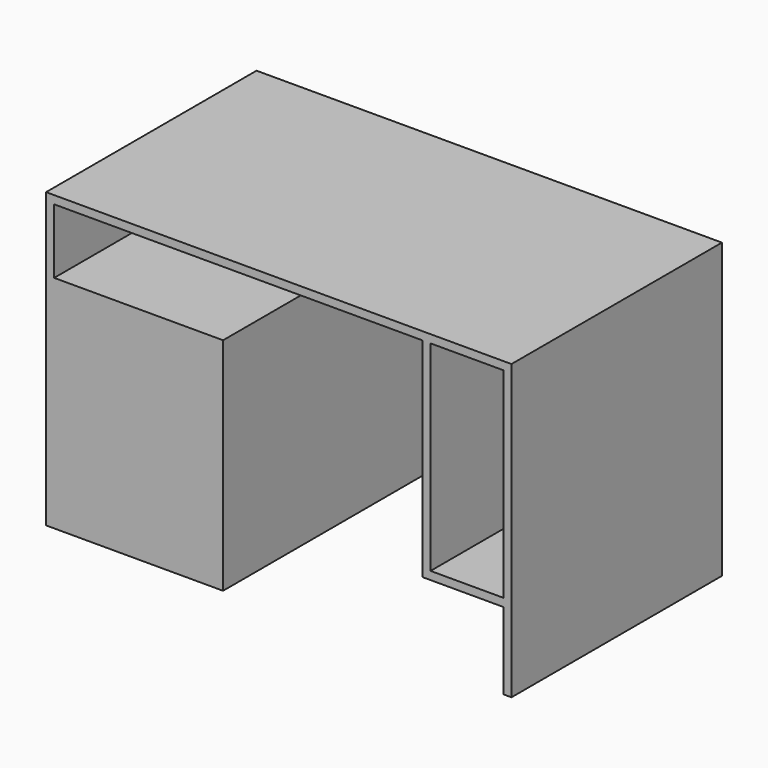
from build123d import *

# Parameters (mm, degrees)
F0_W     = 1150
F0_H     = 650
F1_DEPTH = 725
F2_W     = 180
F2_H     = 495
F3_DEPTH = 650.001
F5_DEPTH = 650.001
F6_W     = 910
F6_H     = 160
F7_DEPTH = 380


with BuildPart() as f1:
    # F0 (on Top) → F1 (new body)
    with BuildSketch(Plane.XY):
        with Locations((-575, -14.591489)):
            Rectangle(F0_W, F0_H)
    extrude(amount=F1_DEPTH)

    # F2 (on face) → F3 (cut, through all)
    with BuildSketch(Plane.XZ.offset(339.591489)):
        with Locations((-110, 457.5)):
            Rectangle(F2_W, F2_H)
    extrude(amount=-F3_DEPTH, mode=Mode.SUBTRACT)

    # F4 (on face) → F5 (cut, through all)
    with BuildSketch(Plane.XZ.offset(339.591489)):
        Polygon((-220, 545), (-712.675017, 545), (-712.675017, 0), (-220, 0), (-20, 0), (-20, 190), (-220, 190), align=None)
    extrude(amount=-F5_DEPTH, mode=Mode.SUBTRACT)

    # F6 (on face) → F7 (cut)
    with BuildSketch(Plane.XZ.offset(339.591489)):
        with Locations((-675, 625)):
            Rectangle(F6_W, F6_H)
    extrude(amount=-F7_DEPTH, mode=Mode.SUBTRACT)


solid = f1.part
